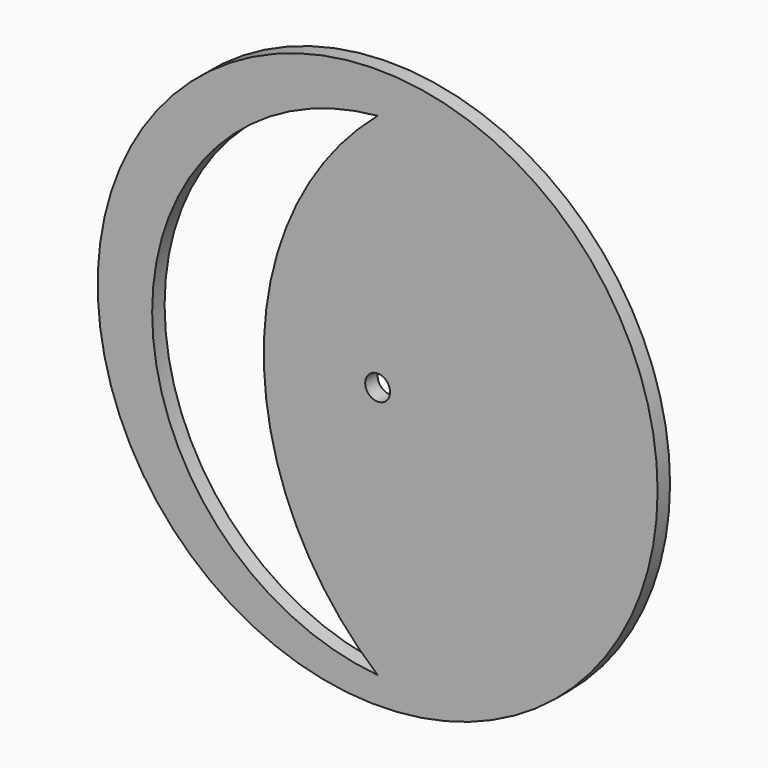
from build123d import *

# Parameters (mm, degrees)
F0_R     = 57.15
F0_R_2   = 2.54
F1_DEPTH = 3.175


with BuildPart() as f1:
    # F0 (on Front) → F1 (new body)
    with BuildSketch(Plane.XZ):
        Circle(F0_R)
        with BuildLine():
            ThreePointArc((0, -51.662087), (-46.032513, -1.41298), (0, 48.836127))
            ThreePointArc((0, 48.836127), (-23.247215, -1.41298), (0, -51.662087))
        make_face(mode=Mode.SUBTRACT)
        Circle(F0_R_2, mode=Mode.SUBTRACT)
    extrude(amount=F1_DEPTH)


solid = f1.part
